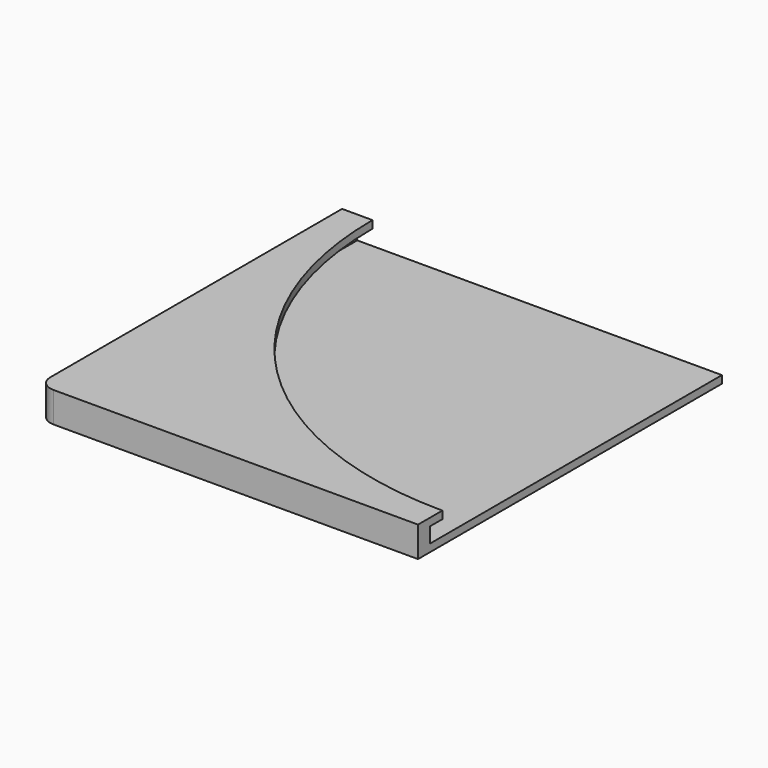
from build123d import *

# Parameters (mm, degrees)
F0_W     = 25
F0_H     = 25
F1_DEPTH = 2
F3_DEPTH = 1.5
F4_W     = 27.374725
F4_H     = 28.161746
F5_DEPTH = 1
F6_R     = 1


with BuildPart() as f1:
    # F0 (on Top) → F1 (new body)
    with BuildSketch(Plane.XY):
        Rectangle(F0_W, F0_H)
    extrude(amount=F1_DEPTH)

    # F2 (on face) → F3 (cut)
    with BuildSketch(Plane.XY.offset(2)):
        with BuildLine():
            Line((12.5, -10.5), (12.5, 12.5))
            Line((12.5, 12.5), (-10.5, 12.5))
            ThreePointArc((-10.5, 12.5), (-3.763456, -3.763456), (12.5, -10.5))
        make_face()
    extrude(amount=-F3_DEPTH, mode=Mode.SUBTRACT)

    # F4 (on face) → F5 (cut)
    with BuildSketch(Plane.XY.offset(0.5)):
        with Locations((2.187362, 2.580873)):
            Rectangle(F4_W, F4_H)
    extrude(amount=F5_DEPTH, mode=Mode.SUBTRACT)

    # F6
    f6_edges = [f1.edges().sort_by_distance(p)[0] for p in [
        (-12.5, -12.5, 1),
    ]]
    fillet(f6_edges, radius=F6_R)


solid = f1.part
